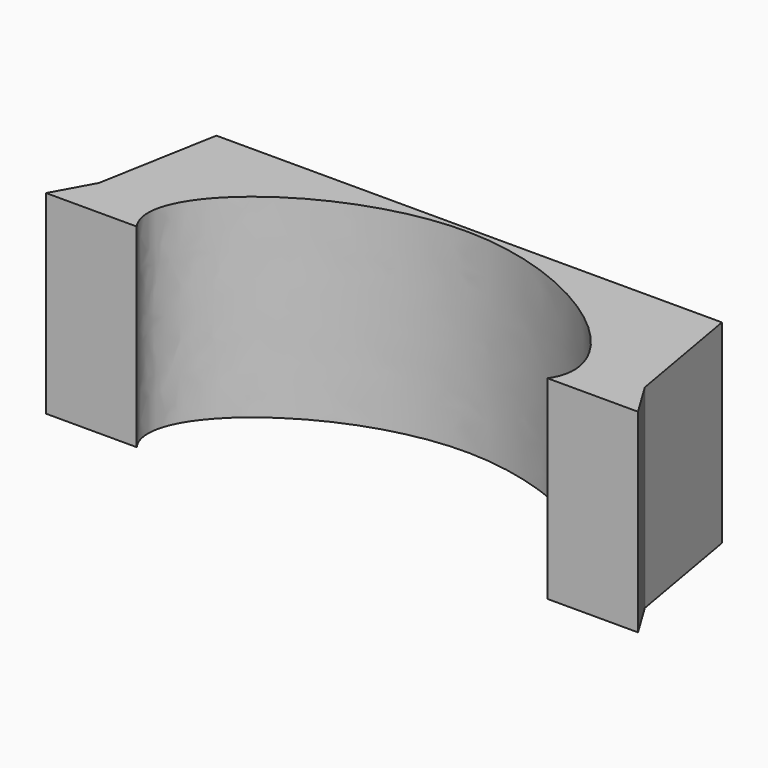
from build123d import *

# Parameters (mm, degrees)
F1_DEPTH = 45


with BuildPart() as f1:
    # F0 (on Top) → F1 (new body)
    with BuildSketch(Plane.XY):
        with BuildLine():
            Line((47.5493574643, -49.2746787322), (68.5493574643, -49.2746787322))
            Line((68.5493574643, -49.2746787322), (63.5493574643, -41.0497039557))
            Line((63.5493574643, -41.0497039557), (58.5493574643, -12.4719206765))
            Line((58.5493574643, -12.4719206765), (-58.5493574643, -12.4719206765))
            Line((-58.5493574643, -12.4719206765), (-63.5493574643, -40.2027425593))
            Line((-63.5493574643, -40.2027425593), (-68.5493574643, -49.2746787322))
            Line((-68.5493574643, -49.2746787322), (-47.5493574643, -49.2746787322))
            add(Edge.make_bspline(
                [(-47.5493574643, -49.2746787322), (-56.7781019223, -36.4473512464), (0, 9.5035098934), (56.7781019223, -36.4473512464), (47.5493574643, -49.2746787322)],
                knots=[0, 0, 0, 0, 0.3063713911, 0.6127427822, 0.6127427822, 0.6127427822, 0.6127427822], degree=3))
        make_face()
    extrude(amount=F1_DEPTH)


solid = f1.part
